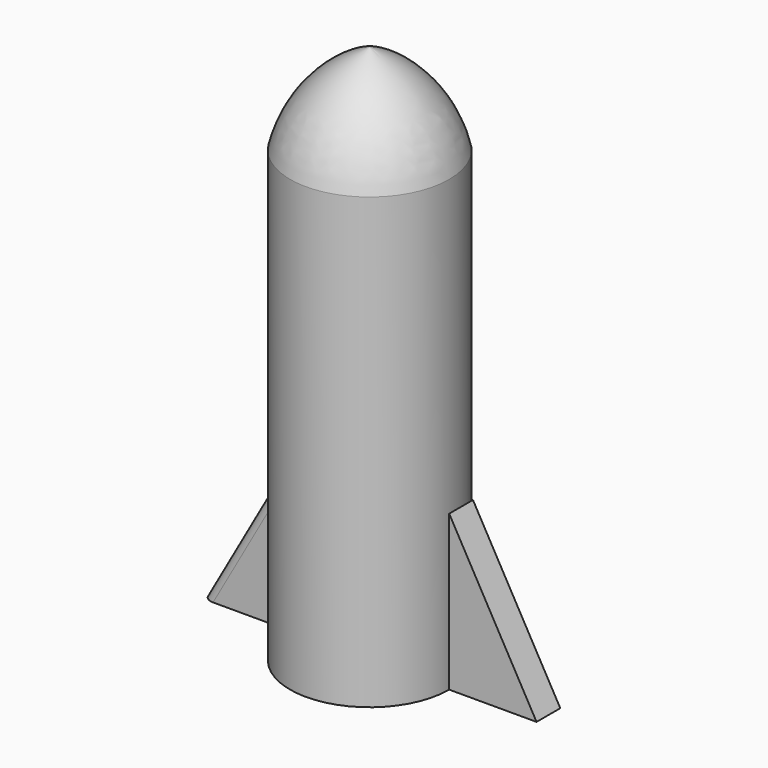
from build123d import *

# Parameters (mm, degrees)
F3_DEPTH = 8.382
F4_R     = 2.54


with BuildPart() as f1:
    # F0 (on Front) → F1 (revolve)
    with BuildSketch(Plane.XZ):
        with BuildLine():
            ThreePointArc((22.461521, 50.795339), (14.429559, 66.380315), (0, 76.339819))
            Line((0, 76.339819), (0, -76.046199))
            Line((0, -76.046199), (22.461521, -76.046199))
            Line((22.461521, -76.046199), (22.461521, 50.795339))
        make_face()
    revolve(axis=Axis((0, 0, 0.14681), (0, 0, -1)))


with BuildPart() as f3:
    # F2 (on Front) → F3 (new body)
    with BuildSketch(Plane.XZ):
        Polygon((47.125157, -76.046206), (22.461526, -32.297619), (22.16791, -76.046206), align=None)
        Polygon((-22.16791, -76.046206), (-22.461526, -32.297619), (-47.125157, -76.046206), align=None)
    extrude(amount=-F3_DEPTH)

    # F4
    f4_edges = [f3.edges().sort_by_distance(p)[0] for p in [
        (-34.793342, 0, -54.171912),
    ]]
    fillet(f4_edges, radius=F4_R)


solid = Compound([f1.part, f3.part])
